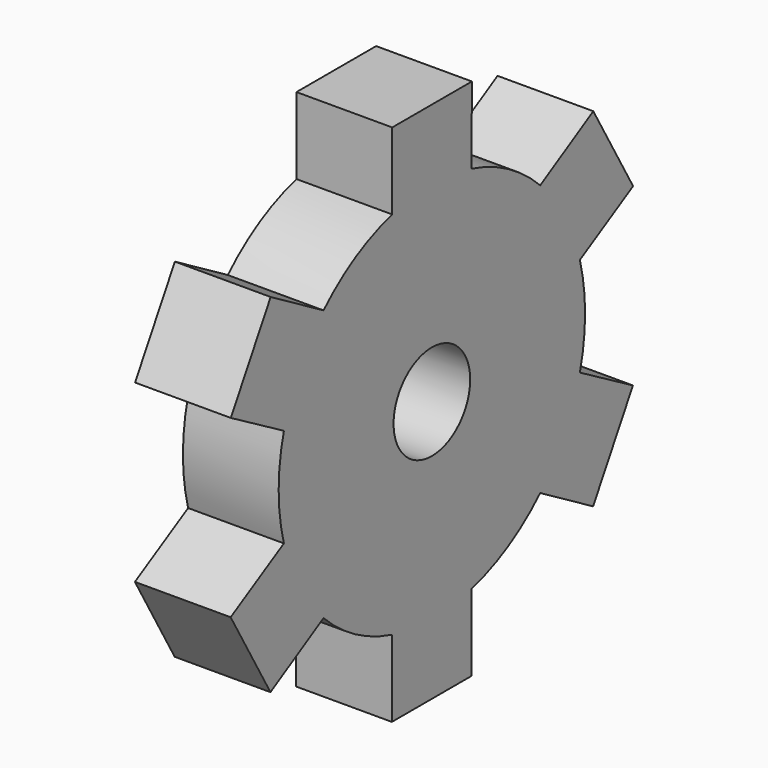
from build123d import *

# Parameters (mm, degrees)
F0_R     = 25.4
F1_DEPTH = 6.35
F3_DEPTH = 12.7
F5_COUNT = 6
F6_R     = 6.35
F7_DEPTH = 25.4


with BuildPart() as f1:
    # F0 (on Right) → F1 (new body, symmetric)
    with BuildSketch(Plane.YZ):
        Circle(F0_R)
    extrude(amount=F1_DEPTH, both=True)

    # F2 (on face) → F3 (join)
    with BuildSketch(Plane.YZ.offset(6.35)):
        Polygon((-6.574004, 24.534516), (0, 0), (0, 24.534516), align=None)
        Polygon((0, 24.534516), (0, 0), (6.574004, 24.534516), align=None)
        Polygon((-6.574004, 24.534516), (0, 24.534516), (6.574004, 24.534516), (6.631173, 34.694516), (-6.574004, 34.694516), align=None)
    extrude(amount=-F3_DEPTH)

    # F5: F1 ×6 about axis
    f5_axis = Axis((-31.581827, 0, 0), (-1, 0, 0))


with BuildPart() as f1_1:
    add(f1.part)
    for i in range(1, F5_COUNT):
        add(f1.part.rotate(f5_axis, i * 360 / F5_COUNT))

    # F6 (on face) → F7 (cut)
    with BuildSketch(Plane.YZ.offset(6.35)):
        Circle(F6_R)
    extrude(amount=-F7_DEPTH, mode=Mode.SUBTRACT)


solid = f1_1.part
